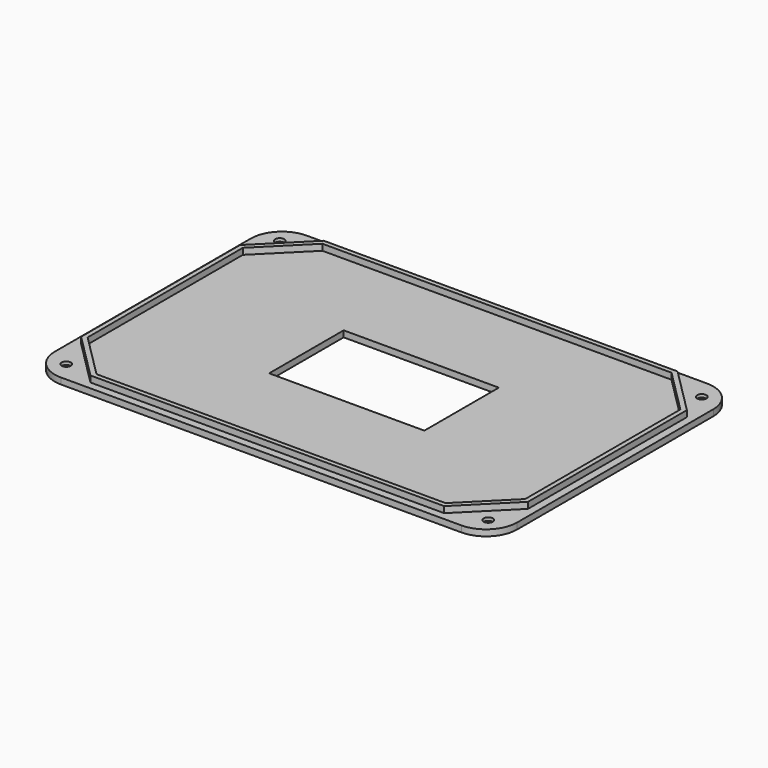
from build123d import *

# Parameters (mm, degrees)
PAD_DEPTH       = 2
SKETCH002_R     = 1.5
POCKET_DEPTH    = 5
CHAMFER_SIZE    = 1
CHAMFER001_SIZE = 1
CHAMFER002_SIZE = 1
CHAMFER003_SIZE = 1
SKETCH004_W     = 50
SKETCH004_H     = 30
POCKET001_DEPTH = 5
PAD001_DEPTH    = 2


with BuildPart() as part:
    # Sketch → Pad (new body)
    with BuildSketch(Plane.XY):
        with BuildLine():
            Line((-64.5, 49.5), (64.5, 49.5))
            ThreePointArc((74.5, 39.5), (71.571068, 46.571068), (64.5, 49.5))
            Line((74.5, 39.5), (74.5, -39.5))
            ThreePointArc((64.5, -49.5), (71.571068, -46.571068), (74.5, -39.5))
            Line((64.5, -49.5), (-64.5, -49.5))
            ThreePointArc((-74.5, -39.5), (-71.571068, -46.571068), (-64.5, -49.5))
            Line((-74.5, -39.5), (-74.5, 39.5))
            ThreePointArc((-64.5, 49.5), (-71.571068, 46.571068), (-74.5, 39.5))
        make_face()
    extrude(amount=PAD_DEPTH)

    # Sketch002 → Pocket (cut)
    with BuildSketch(Plane.XY.offset(4)):
        with Locations((-68, 43)):
            Circle(SKETCH002_R)
        with Locations((-68, -43)):
            Circle(SKETCH002_R)
        with Locations((68, -43)):
            Circle(SKETCH002_R)
        with Locations((68, 43)):
            Circle(SKETCH002_R)
    extrude(amount=-POCKET_DEPTH, mode=Mode.SUBTRACT)

    # Chamfer
    chamfer_edges = [part.edges().sort_by_distance(p)[0] for p in [
        (-69.5, 43, 0),
    ]]
    chamfer(chamfer_edges, length=CHAMFER_SIZE)

    # Chamfer001
    chamfer001_edges = [part.edges().sort_by_distance(p)[0] for p in [
        (-69.5, -43, 0),
    ]]
    chamfer(chamfer001_edges, length=CHAMFER001_SIZE)

    # Chamfer002
    chamfer002_edges = [part.edges().sort_by_distance(p)[0] for p in [
        (66.5, -43, 0),
    ]]
    chamfer(chamfer002_edges, length=CHAMFER002_SIZE)

    # Chamfer003
    chamfer003_edges = [part.edges().sort_by_distance(p)[0] for p in [
        (66.5, 43, 0),
    ]]
    chamfer(chamfer003_edges, length=CHAMFER003_SIZE)

    # Sketch004 → Pocket001 (cut)
    with BuildSketch(Plane(origin=(0, 0, 0), x_dir=(1, 0, 0), z_dir=(0, 0, -1))):
        Rectangle(SKETCH004_W, SKETCH004_H)
    extrude(amount=-POCKET001_DEPTH, mode=Mode.SUBTRACT)

    # Sketch005 (on Face18 of Pocket001) → Pad001 (join)
    with BuildSketch(Plane.XY.offset(2)):
        Polygon((-57, 47), (57, 47), (72, 32), (72, -32), (57, -47), (-57, -47), (-72, -32), (-72, 32), align=None)
        Polygon((-70.5, 31.25), (-56.25, 45.5), (56.25, 45.5), (70.5, 31.25), (70.5, -31.25), (56.25, -45.5), (-56.25, -45.5), (-70.5, -31.25), align=None, mode=Mode.SUBTRACT)
    extrude(amount=PAD001_DEPTH)


solid = part.part
